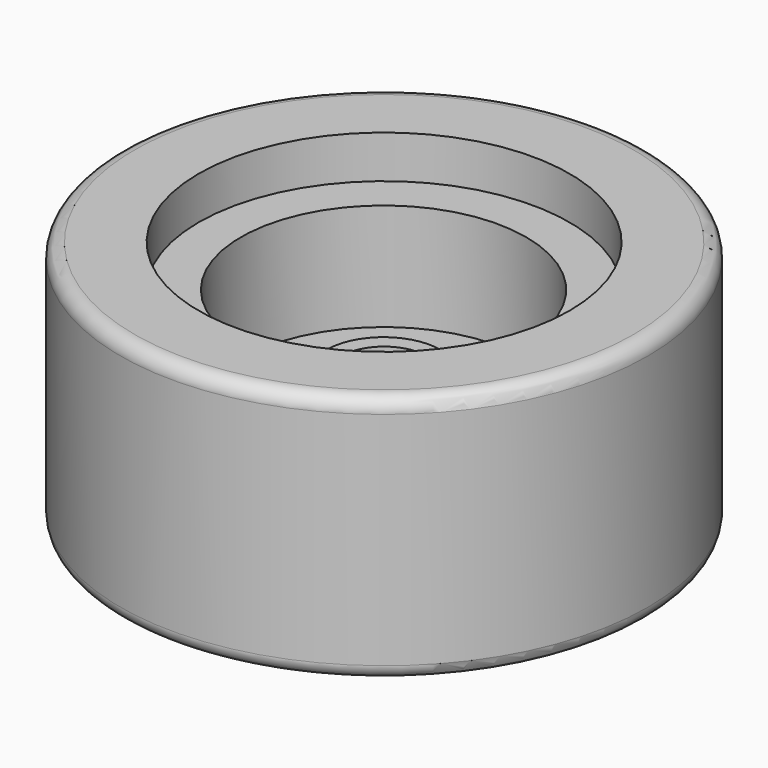
from build123d import *

# Parameters (mm, degrees)
SKETCH_R          = 37
SKETCH_R_2        = 26
PAD_DEPTH         = 35
FILLET_R          = 2
SKETCH001_R       = 26
PAD001_DEPTH      = 29
SKETCH002_R       = 20
SKETCH002_R_2     = 8
POCKET_DEPTH      = 15
SKETCH003_R       = 20
POCKET001_DEPTH   = 10
POCKET001_FACE9_R = 8
POCKET002_DEPTH   = 10
SKETCH004_R       = 6
POCKET003_DEPTH   = 5
SKETCH005_R       = 6
SKETCH005_R_2     = 2
PAD002_DEPTH      = 17


with BuildPart() as outer_rubber:
    # Sketch → Pad (new body)
    with BuildSketch(Plane.XY):
        with Locations((10, 10)):
            Circle(SKETCH_R)
        with Locations((10, 10)):
            Circle(SKETCH_R_2, mode=Mode.SUBTRACT)
    extrude(amount=PAD_DEPTH)

    # Fillet
    fillet_edges = [outer_rubber.edges().sort_by_distance(p)[0] for p in [
        (-27, 10, 35),
        (-27, 10, 0),
    ]]
    fillet(fillet_edges, radius=FILLET_R)


with BuildPart() as rim:
    # Sketch001 → Pad001 (new body)
    with BuildSketch(Plane.XY):
        with Locations((10, 10)):
            Circle(SKETCH001_R)
    extrude(amount=PAD001_DEPTH)

    # Sketch002 (on Face3 of Pad001) → Pocket (cut)
    with BuildSketch(Plane.XY.offset(29)):
        with Locations((9.806965, 10.142783)):
            Circle(SKETCH002_R)
        with Locations((9.806965, 10.142783)):
            Circle(SKETCH002_R_2, mode=Mode.SUBTRACT)
    extrude(amount=-POCKET_DEPTH, mode=Mode.SUBTRACT)

    # Sketch003 (on Face2 of Pocket) → Pocket001 (cut)
    with BuildSketch(Plane(origin=(0, 0, 0), x_dir=(1, 0, 0), z_dir=(0, 0, -1))):
        with Locations((10, -10)):
            Circle(SKETCH003_R)
    extrude(amount=-POCKET001_DEPTH, mode=Mode.SUBTRACT)

    # Pocket001 Face9 → Pocket002 (cut)
    with BuildSketch(Plane(origin=(9.806965, 10.142783, 29), x_dir=(0, 1, 0), z_dir=(0, 0, 1))):
        Circle(POCKET001_FACE9_R)
    extrude(amount=-POCKET002_DEPTH, mode=Mode.SUBTRACT)

    # Sketch004 (on Face9 of Pocket002) → Pocket003 (cut)
    with BuildSketch(Plane.XY.offset(19)):
        with Locations((10, 10)):
            Circle(SKETCH004_R)
    extrude(amount=-POCKET003_DEPTH, mode=Mode.SUBTRACT)


with BuildPart() as coupler:
    # Sketch005 → Pad002 (new body)
    with BuildSketch(Plane.XY):
        with Locations((10, 10)):
            Circle(SKETCH005_R)
        with Locations((10, 10)):
            Circle(SKETCH005_R_2, mode=Mode.SUBTRACT)
    extrude(amount=PAD002_DEPTH)


solid = Compound([outer_rubber.part, rim.part, coupler.part])
